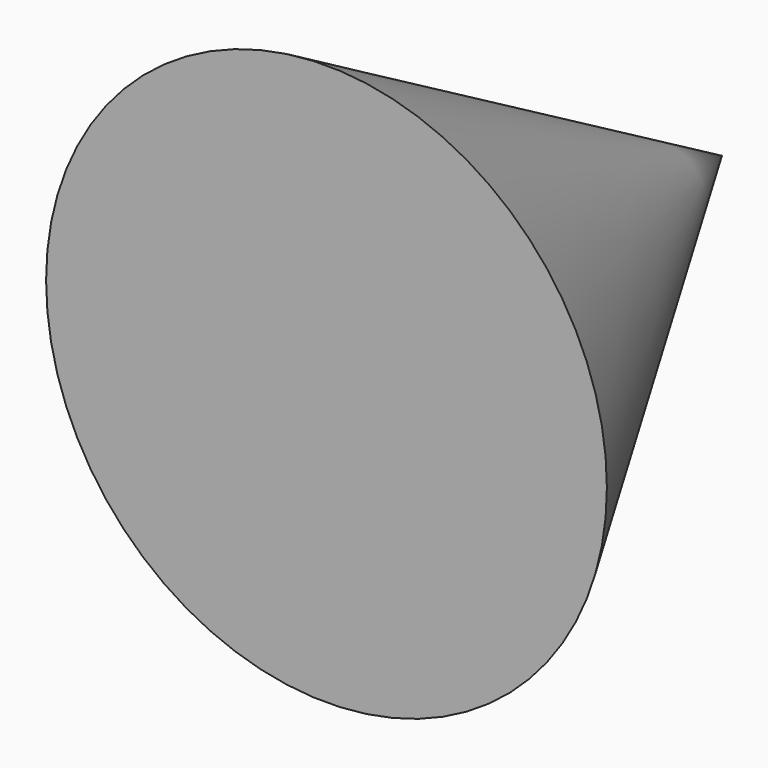
from build123d import *


with BuildPart() as f1:
    # F0 (on Top) → F1 (revolve)
    with BuildSketch(Plane.XY):
        Polygon((-17.433271, 19.545646), (-17.433271, 52.094076), (-35.898246, 19.545646), align=None)
    revolve(axis=Axis((-17.433271, 35.819861, 0), (0, 1, 0)))


solid = f1.part
